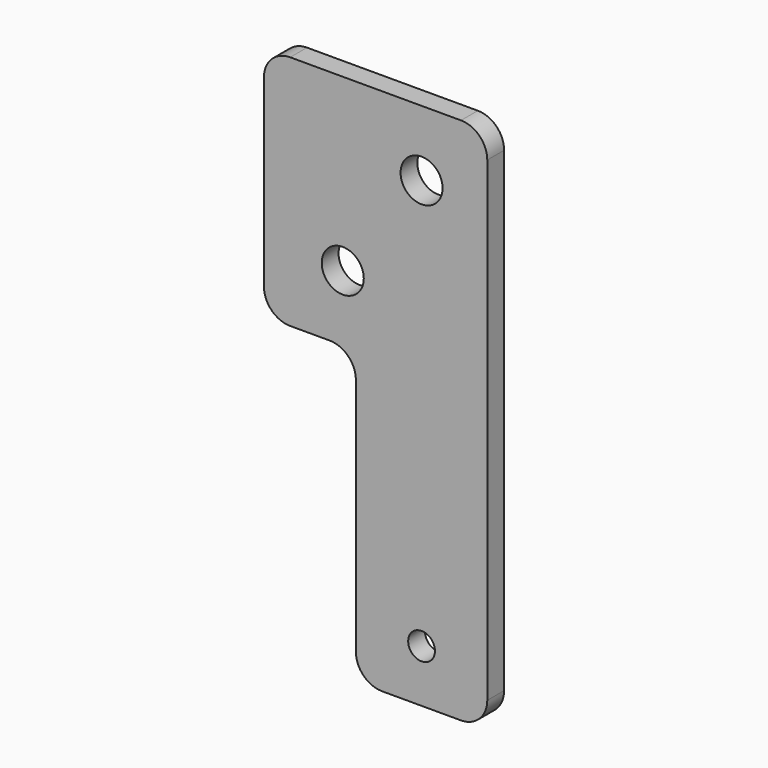
from build123d import *

# Parameters (mm, degrees)
F0_R     = 2.55
F0_R_2   = 4
F1_DEPTH = 4


with BuildPart() as f1:
    # F0 (on Front) → F1 (new body)
    with BuildSketch(Plane.XZ):
        with BuildLine():
            Line((0, 50.5), (0, 5))
            ThreePointArc((0, 5), (1.464466, 1.464466), (5, 0))
            Line((5, 0), (20, 0))
            ThreePointArc((20, 0), (23.535534, 1.464466), (25, 5))
            Line((25, 5), (25, 95.5))
            ThreePointArc((25, 95.5), (23.535534, 99.035534), (20, 100.5))
            Line((20, 100.5), (-12.5, 100.5))
            ThreePointArc((-12.5, 100.5), (-16.035534, 99.035534), (-17.5, 95.5))
            Line((-17.5, 95.5), (-17.5, 60.5))
            ThreePointArc((-17.5, 60.5), (-16.035534, 56.964466), (-12.5, 55.5))
            Line((-12.5, 55.5), (-5, 55.5))
            ThreePointArc((-5, 55.5), (-1.464466, 54.035534), (0, 50.5))
        make_face()
        with Locations((12.5, 10)):
            Circle(F0_R, mode=Mode.SUBTRACT)
        with Locations((-2.5, 68)):
            Circle(F0_R_2, mode=Mode.SUBTRACT)
        with Locations((12.5, 88)):
            Circle(F0_R_2, mode=Mode.SUBTRACT)
    extrude(amount=F1_DEPTH)


solid = f1.part
